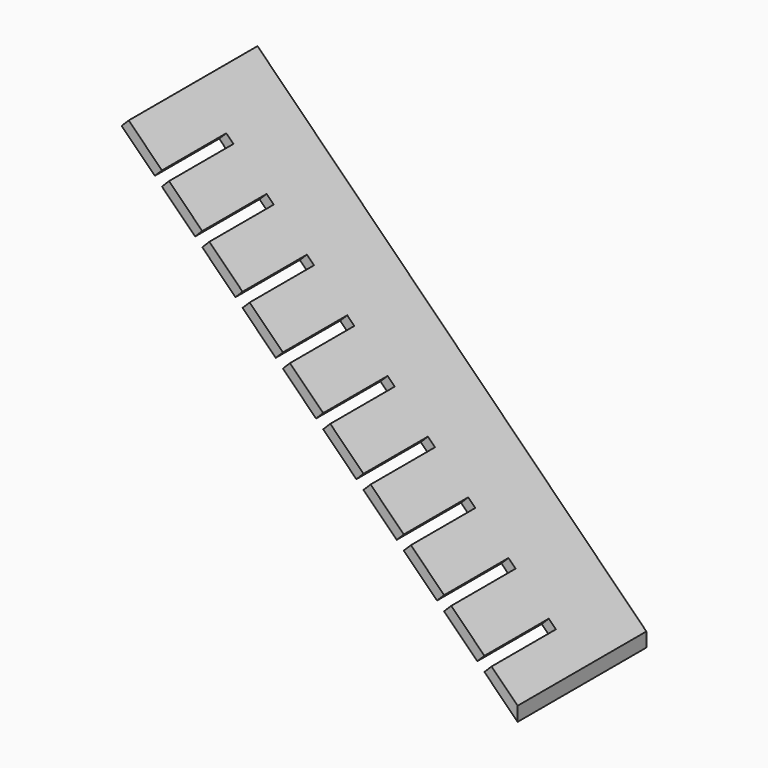
from build123d import *

# Parameters (mm, degrees)
F1_DEPTH = 152.4
F2_W     = 19.05
F2_H     = 152.4
F3_DEPTH = 19.05


with BuildPart() as f1:
    # F0 (on Front) → F1 (new body, symmetric)
    with BuildSketch(Plane.XZ):
        Polygon((-371.3216865451, 884.5013463886), (378.5296995641, 134.6499602793), (378.5296995641, 161.5907286425), (-357.8513023635, 897.9717305702), align=None)
    extrude(amount=F1_DEPTH, both=True)

    # F2 (on face) → F3 (cut)
    with BuildSketch(Plane(origin=(270.0602141033, 0, 270.0602141033), x_dir=(0.7071067812, 0, -0.7071067812), z_dir=(0.7071067812, 0, 0.7071067812))):
        with Locations((74.0240174423, -76.2)):
            Rectangle(F2_W, F2_H)
        with Locations((-33.9259825577, -76.2)):
            Rectangle(F2_W, F2_H)
        with Locations((-141.8759825577, -76.2)):
            Rectangle(F2_W, F2_H)
        with Locations((-249.8259825577, -76.2)):
            Rectangle(F2_W, F2_H)
        with Locations((-357.7759825577, -76.2)):
            Rectangle(F2_W, F2_H)
        with Locations((-465.7259825577, -76.2)):
            Rectangle(F2_W, F2_H)
        with Locations((-573.6759825577, -76.2)):
            Rectangle(F2_W, F2_H)
        with Locations((-681.6259825577, -76.2)):
            Rectangle(F2_W, F2_H)
        with Locations((-789.5759825577, -76.2)):
            Rectangle(F2_W, F2_H)
    extrude(amount=-F3_DEPTH, mode=Mode.SUBTRACT)


solid = f1.part
